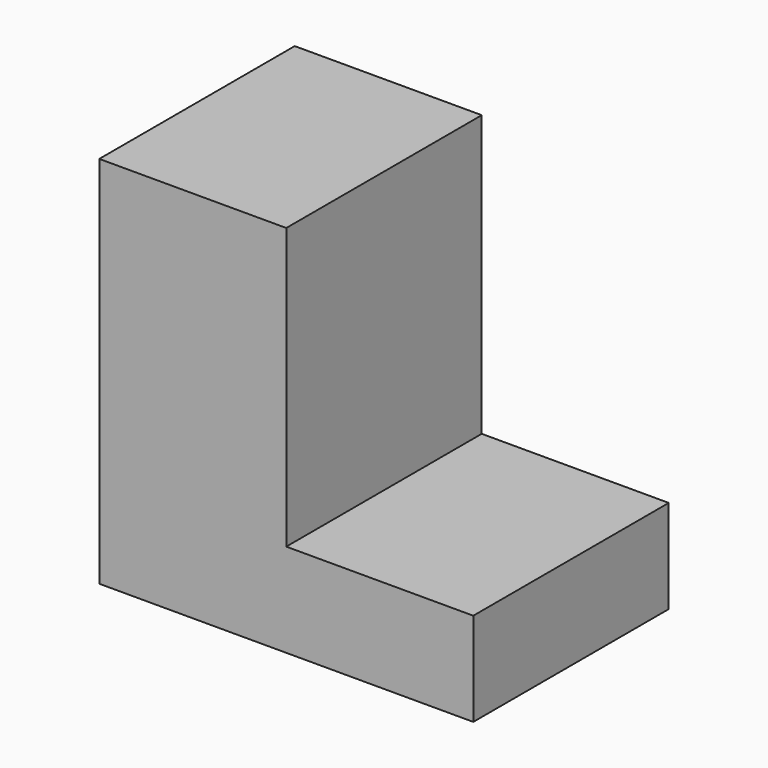
from build123d import *

# Parameters (mm, degrees)
F0_W     = 8
F0_H     = 8
F0_H_2   = 16
F1_DEPTH = 20.90309


with BuildPart() as f1:
    # F0 (on Front) → F1 (new body)
    with BuildSketch(Plane.XZ):
        with Locations((-20.720104, 12.105988)):
            Rectangle(F0_W, F0_H)
        with Locations((-28.720104, 12.105988)):
            Rectangle(F0_W, F0_H)
        Polygon((-32.720104, 16.105988), (-32.720104, 24.105988), (-40.720104, 24.105988), (-48.720104, 24.105988), (-48.720104, 8.105988), (-32.720104, 8.105988), align=None)
        with Locations((-36.720104, 32.105988)):
            Rectangle(F0_W, F0_H_2)
        with Locations((-44.720104, 32.105988)):
            Rectangle(F0_W, F0_H_2)
    extrude(amount=-F1_DEPTH)


solid = f1.part
